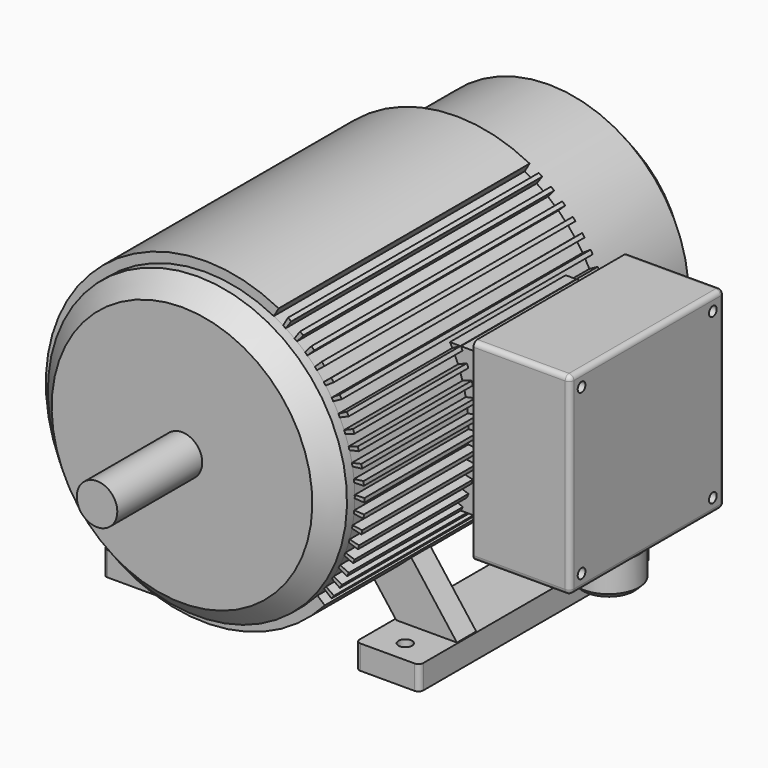
from build123d import *

# Parameters (mm, degrees)
F0_R      = 165
F1_DEPTH  = 252.5
F4_W      = 130
F4_H      = 20
F9_R      = 21
F10_DEPTH = 110
F11_W     = 150
F11_H     = 150
F12_DEPTH = 180
F13_W     = 200
F13_H     = 200
F14_DEPTH = 100
F15_R     = 5
F16_R     = 5
F17_DEPTH = 25
F19_DEPTH = 25
F21_DEPTH = 25
F22_W     = 66
F22_H     = 300
F22_R     = 7.5
F23_DEPTH = 25
F24_R     = 5
F25_R     = 27.5
F26_DEPTH = 5
F27_R     = 31.5
F28_DEPTH = 35
F29_SIZE  = 5
F30_W     = 66
F30_H     = 300
F30_R     = 7
F30_W_2   = 62.817506
F30_H_2   = 25
F31_DEPTH = 25
F32_R     = 5
F33_DEPTH = 475.001
F34_DEPTH = 200


with BuildPart() as f1:
    # F0 (on Front) → F1 (new body, symmetric)
    with BuildSketch(Plane.XZ):
        Circle(F0_R)
    extrude(amount=F1_DEPTH, both=True)

    # F2 (on Right) → F3 (revolve, cut)
    with BuildSketch(Plane.YZ):
        Polygon((252.5, 165), (202.5, 165), (252.5, 115), align=None)
    revolve(axis=Axis((0, 0, 0), (0, -1, 0)), mode=Mode.SUBTRACT)

    # F4 (on Right) → F5 (revolve, cut)
    with BuildSketch(Plane.YZ):
        with Locations((167.5, 155)):
            Rectangle(F4_W, F4_H)
    revolve(axis=Axis((0, 0, 0), (0, -1, 0)), mode=Mode.SUBTRACT)

    # F6 (on Right) → F7 (revolve, cut)
    with BuildSketch(Plane.YZ):
        Polygon((-222.5, 165), (-252.5, 165), (-252.5, 135), (-232.5, 155), (-222.5, 155), align=None)
    revolve(axis=Axis((0, 0, 0), (0, -1, 0)), mode=Mode.SUBTRACT)

    # F9 (on face) → F10 (join)
    with BuildSketch(Plane.XZ.offset(252.5)):
        Circle(F9_R)
    extrude(amount=F10_DEPTH)

    # F11 (on Right) → F12 (join)
    with BuildSketch(Plane.YZ):
        Rectangle(F11_W, F11_H)
    extrude(amount=F12_DEPTH)

    # F13 (on face) → F14 (join)
    with BuildSketch(Plane.YZ.offset(180)):
        Rectangle(F13_W, F13_H)
    extrude(amount=F14_DEPTH)

    # F15
    f15_edges = [f1.edges().sort_by_distance(p)[0] for p in [
        (230, -100, 100),
        (280, 100, 0),
        (280, 0, 100),
        (280, -100, 0),
        (280, 0, -100),
        (230, 100, 100),
        (230, 100, -100),
        (230, -100, -100),
    ]]
    fillet(f15_edges, radius=F15_R)

    # F16 (on face) → F17 (cut)
    with BuildSketch(Plane.YZ.offset(280)):
        with Locations((-85, 85)):
            Circle(F16_R)
        with Locations((-85, -85)):
            Circle(F16_R)
        with Locations((85, 85)):
            Circle(F16_R)
        with Locations((85, -85)):
            Circle(F16_R)
    extrude(amount=-F17_DEPTH, mode=Mode.SUBTRACT)

    # F18 (on face) → F19 (join)
    with BuildSketch(Plane.XZ.offset(100)):
        Polygon((-38.953154, 85.300459), (-43.204443, 90.890316), (-83.002266, 60.622622), (-31.408753, -7.215699), (0, 34.08246), align=None)
        Polygon((38.953154, 85.300459), (0, 34.08246), (31.408753, -7.215699), (83.002266, 60.622622), (43.204443, 90.890316), align=None)
        Polygon((0, -48.513857), (-31.408753, -7.215699), (-162.817506, -180), (-100, -180), align=None)
        Polygon((162.817506, -180), (31.408753, -7.215699), (0, -48.513857), (100, -180), align=None)
    extrude(amount=-F19_DEPTH)

    # F20 (on face) → F21 (join)
    with BuildSketch(Plane(origin=(0, 100, 0), x_dir=(-1, 0, 0), z_dir=(0, 1, 0))):
        Polygon((83.002266, 60.622622), (43.204443, 90.890316), (0, 34.08246), (31.408753, -7.215699), align=None)
        Polygon((-31.408753, -7.215699), (0, 34.08246), (-43.204443, 90.890316), (-83.002266, 60.622622), align=None)
        Polygon((0, -48.513857), (-31.408753, -7.215699), (-162.817506, -180), (-100, -180), align=None)
        Polygon((162.817506, -180), (31.408753, -7.215699), (0, -48.513857), (100, -180), align=None)
    extrude(amount=-F21_DEPTH)

    # F22 (on face) → F23 (join)
    with BuildSketch(Plane(origin=(0, 0, -180), x_dir=(1, 0, 0), z_dir=(0, 0, -1))):
        with Locations((-131, 0)):
            Rectangle(F22_W, F22_H)
        with Locations((-131, -127)):
            Circle(F22_R, mode=Mode.SUBTRACT)
        with Locations((-131, 127)):
            Circle(F22_R, mode=Mode.SUBTRACT)
    extrude(amount=F23_DEPTH)

    # F24
    f24_edges = [f1.edges().sort_by_distance(p)[0] for p in [
        (-164, -150, -192.5),
        (-98, -150, -192.5),
        (-98, 150, -192.5),
        (-164, 150, -192.5),
    ]]
    fillet(f24_edges, radius=F24_R)

    # F25 (on face) → F26 (join)
    with BuildSketch(Plane(origin=(0, 0, -100), x_dir=(1, 0, 0), z_dir=(0, 0, -1))):
        with Locations((240, 0)):
            Circle(F25_R)
    extrude(amount=F26_DEPTH)

    # F27 (on face) → F28 (join)
    with BuildSketch(Plane(origin=(0, 0, -105), x_dir=(1, 0, 0), z_dir=(0, 0, -1))):
        with Locations((240, 0)):
            Circle(F27_R)
    extrude(amount=F28_DEPTH)

    # F29
    f29_edges = [f1.edges().sort_by_distance(p)[0] for p in [
        (208.5, 0, -140),
    ]]
    chamfer(f29_edges, length=F29_SIZE)

    # F30 (on face) → F31 (join)
    with BuildSketch(Plane(origin=(0, 0, -180), x_dir=(1, 0, 0), z_dir=(0, 0, -1))):
        with Locations((131, 0)):
            Rectangle(F30_W, F30_H)
        with Locations((131, -127)):
            Circle(F30_R, mode=Mode.SUBTRACT)
        with Locations((131.408753, 87.5)):
            Rectangle(F30_W_2, F30_H_2, mode=Mode.SUBTRACT)
        with Locations((131, 127)):
            Circle(F30_R, mode=Mode.SUBTRACT)
        with Locations((131.408753, 87.5)):
            Rectangle(F30_W_2, F30_H_2)
    extrude(amount=F31_DEPTH)

    # F32
    f32_edges = [f1.edges().sort_by_distance(p)[0] for p in [
        (164, -150, -192.5),
        (98, -150, -192.5),
        (164, 150, -192.5),
        (98, 150, -192.5),
    ]]
    fillet(f32_edges, radius=F32_R)

    # F8 (on face) → F33 (cut, through all)
    with BuildSketch(Plane.XZ.offset(222.5)):
        Polygon((83.262286, 158.675727), (71.153738, 137.703107), (80.725607, 132.319222), (92.772478, 153.185016), align=None)
        Polygon((92.52294, 124.356365), (106.433047, 144.029123), (97.466616, 150.369058), (83.485293, 130.595581), align=None)
        Polygon((103.5401, 115.344907), (119.196148, 133.658745), (110.849084, 140.794443), (95.112882, 122.386844), align=None)
        Polygon((113.684187, 105.360836), (130.954161, 122.161326), (123.296849, 130.032618), (105.938458, 113.146114), align=None)
        Polygon((122.869663, 94.488338), (141.607938, 109.633815), (134.704947, 118.174329), (115.870736, 102.951311), align=None)
        Polygon((131.019074, 82.819093), (151.067646, 96.181848), (144.977183, 105.319568), (124.825967, 91.888399), align=None)
        Polygon((138.063703, 70.4515), (159.253518, 81.918854), (154.026938, 91.576728), (132.728638, 80.050664), align=None)
        Polygon((143.944149, 57.489843), (166.096529, 66.965102), (161.777904, 77.061693), (139.51211, 67.537923), align=None)
        Polygon((148.610825, 44.043419), (171.538976, 51.446685), (168.164723, 61.896856), (145.119186, 54.455688), align=None)
        Polygon((152.024381, 30.225612), (175.534969, 35.494458), (173.133539, 46.210091), (149.502584, 40.91427), align=None)
        Polygon((154.156034, 16.152935), (178.050811, 19.242933), (176.642454, 30.133672), (152.625342, 27.027854), align=None)
        Polygon((154.987808, 1.944053), (179.065289, 2.829149), (178.661881, 13.80316), (154.46113, 12.913533), align=None)
        Polygon((154.512691, -12.281222), (178.569848, -13.608492), (179.17479, -2.643744), (154.994467, -1.309678), align=None)
        Polygon((152.734688, -26.402939), (176.568667, -29.931383), (178.176858, -19.068355), (154.220856, -15.521846), align=None)
        Polygon((149.668792, -40.30202), (173.078618, -46.001886), (175.676498, -35.332178), (152.14682, -29.603129), align=None)
        Polygon((145.340855, -53.861265), (168.129133, -61.684491), (171.694795, -51.298071), (148.789848, -43.434793), align=None)
        Polygon((139.787371, -66.966341), (161.761945, -76.846958), (166.265323, -66.831408), (144.178246, -56.900205), align=None)
        Polygon((133.05517, -79.506741), (154.030743, -91.361435), (159.433865, -81.801208), (138.350902, -69.885821), align=None)
        Polygon((125.201017, -91.376722), (145.000721, -105.105531), (151.258024, -96.081241), (131.356952, -82.282144), align=None)
        Polygon((116.291141, -102.476195), (134.748019, -117.963355), (141.806742, -109.551096), (123.25537, -93.984646), align=None)
    extrude(amount=-F33_DEPTH, mode=Mode.SUBTRACT)

    # F11 (on Right) → F34 (join)
    with BuildSketch(Plane.YZ):
        Rectangle(F11_W, F11_H)
    extrude(amount=F34_DEPTH)


solid = f1.part
